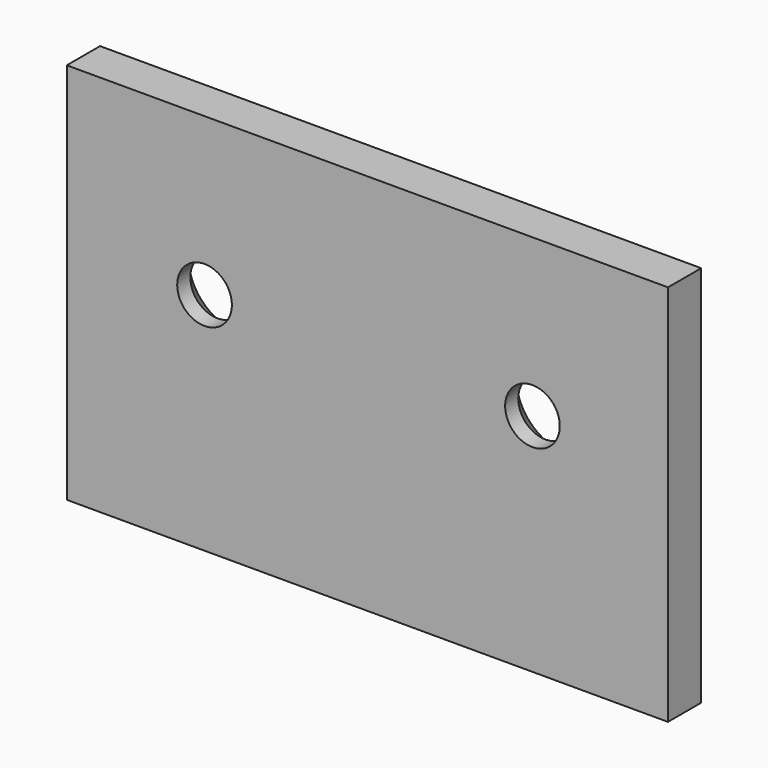
from build123d import *

# Parameters (mm, degrees)
F0_W           = 69.85
F0_H           = 44.45
F1_DEPTH       = 4.826
F2_D           = 6.35
F2_CSINK_D     = 11.43
F2_CSINK_ANGLE = 82


with BuildPart() as f1:
    # F0 (on Front) → F1 (new body)
    with BuildSketch(Plane.XZ):
        Rectangle(F0_W, F0_H)
    extrude(amount=F1_DEPTH)

    # F2 (through all)
    with Locations(Plane(origin=(0, 0, 0), x_dir=(1, 0, 0), z_dir=(0, 1, 0))):
        with Locations((-18.923, -3.937), (19.177, -3.937)):
            CounterSinkHole(F2_D / 2, F2_CSINK_D / 2, counter_sink_angle=F2_CSINK_ANGLE)


solid = f1.part
